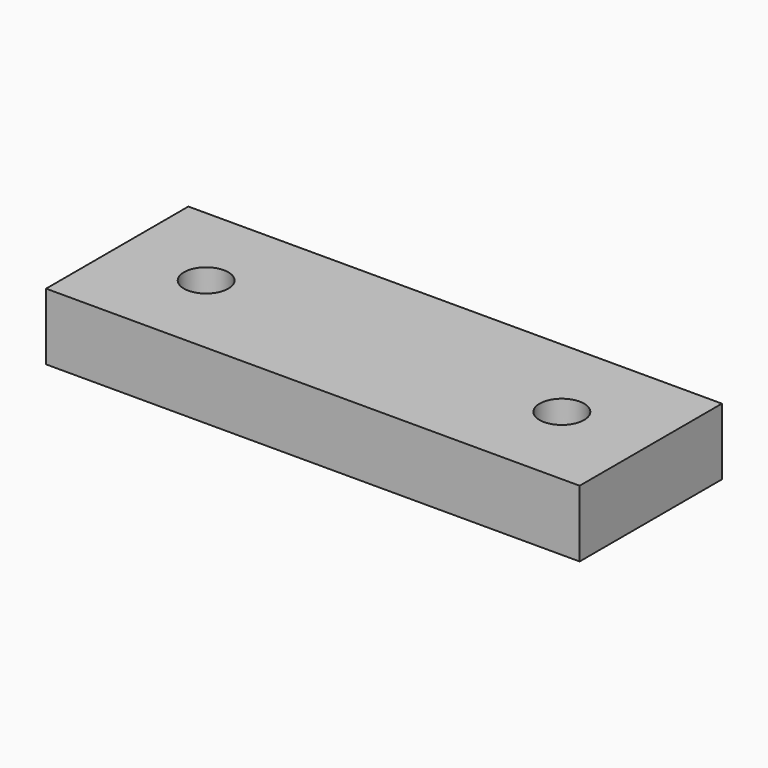
from build123d import *

# Parameters (mm, degrees)
F0_W     = 120
F0_H     = 15
F1_DEPTH = 20
F2_R     = 5
F3_DEPTH = 15.001


with BuildPart() as f1:
    # F0 (on Front) → F1 (new body, symmetric)
    with BuildSketch(Plane.XZ):
        Rectangle(F0_W, F0_H)
    extrude(amount=F1_DEPTH, both=True)

    # F2 (on face) → F3 (cut, through all)
    with BuildSketch(Plane.XY.offset(7.5)):
        with Locations((-40, 0)):
            Circle(F2_R)
        with Locations((40, 0)):
            Circle(F2_R)
    extrude(amount=-F3_DEPTH, mode=Mode.SUBTRACT)


solid = f1.part
